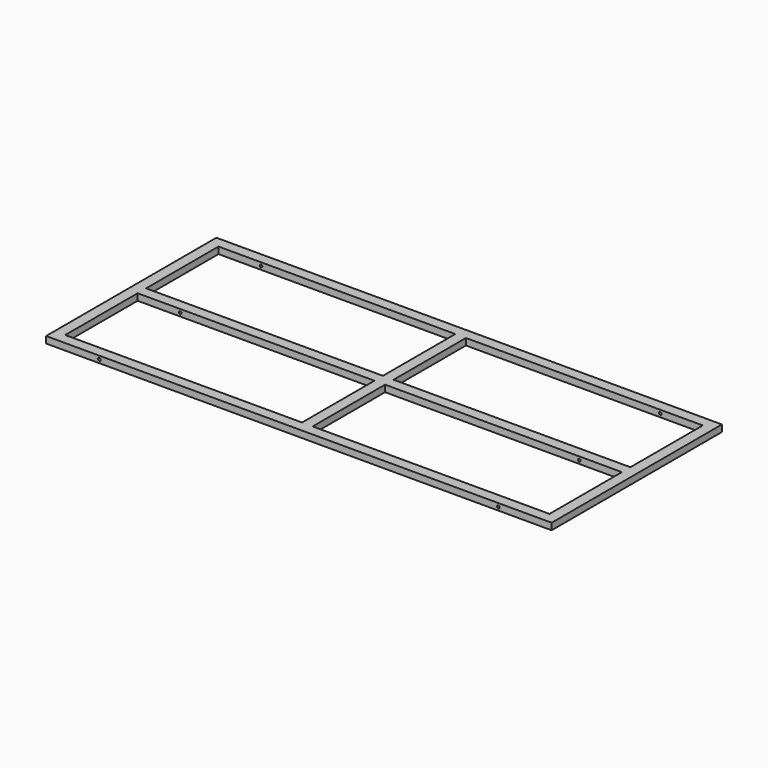
from build123d import *

# Parameters (mm, degrees)
F0_W     = 1900
F0_H     = 800
F1_DEPTH = 25
F2_R     = 5
F3_DEPTH = 800.001


with BuildPart() as f1:
    # F0 (on Top) → F1 (new body)
    with BuildSketch(Plane.XY):
        Rectangle(F0_W, F0_H)
        Polygon((20, 360), (910, 360), (910, 20), (910, -20), (910, -360), (20, -360), (-20, -360), (-910, -360), (-910, -20), (-910, 20), (-910, 360), (-20, 360), align=None, mode=Mode.SUBTRACT)
        Polygon((20, 20), (20, 360), (-20, 360), (-20, 20), (-910, 20), (-910, -20), (-20, -20), (-20, -360), (20, -360), (20, -20), (910, -20), (910, 20), align=None)
    extrude(amount=F1_DEPTH)

    # F2 (on face) → F3 (cut, through all)
    with BuildSketch(Plane.XZ.offset(400)):
        with Locations((750, 12.5)):
            Circle(F2_R)
        with Locations((-750, 12.5)):
            Circle(F2_R)
    extrude(amount=-F3_DEPTH, mode=Mode.SUBTRACT)


solid = f1.part
